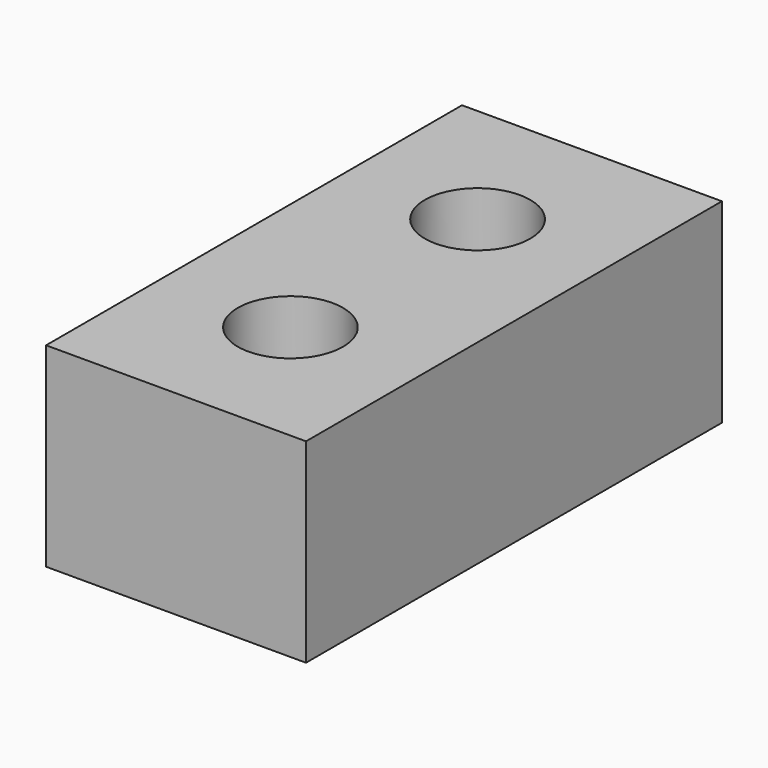
from build123d import *

# Parameters (mm, degrees)
SKETCH_W  = 20
SKETCH_H  = 40
SKETCH_R  = 4.05
PAD_DEPTH = 15


with BuildPart() as part:
    # Sketch → Pad (new body)
    with BuildSketch(Plane.XY):
        Rectangle(SKETCH_W, SKETCH_H)
        with Locations((0, 9)):
            Circle(SKETCH_R, mode=Mode.SUBTRACT)
        with Locations((0, -9)):
            Circle(SKETCH_R, mode=Mode.SUBTRACT)
    extrude(amount=PAD_DEPTH)


solid = part.part
